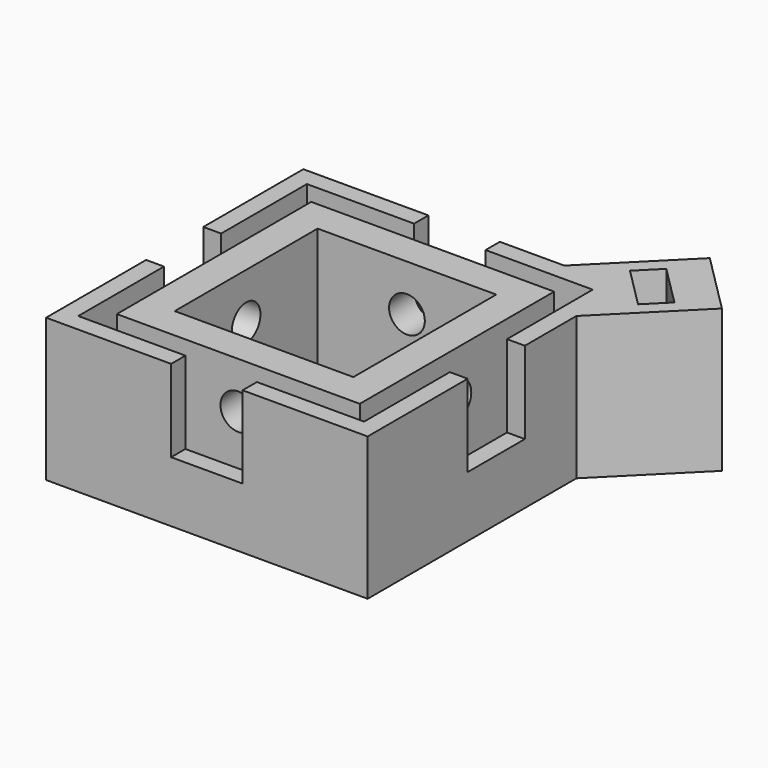
from build123d import *

# Parameters (mm, degrees)
F0_W      = 25
F0_H      = 25
F1_DEPTH  = 5
F2_W      = 34
F2_H      = 34
F2_W_2    = 25
F2_H_2    = 25
F3_DEPTH  = 15
F4_W      = 40
F4_H      = 40
F5_DEPTH  = 15
F6_W      = 10
F6_H      = 2.5
F6_W_2    = 2.5
F6_H_2    = 10
F7_DEPTH  = 11.5
F8_R      = 2.75
F9_DEPTH  = 25
F11_DEPTH = 15
F12_R     = 2.5
F13_DEPTH = 45
F14_R     = 2.5
F15_DEPTH = 45


with BuildPart() as f1:
    # F0 (on Top) → F1 (new body)
    with BuildSketch(Plane.XY):
        Polygon((22.5, 14.0147186258), (22.5, 22.5), (14.0147186258, 22.5), (-22.5, 22.5), (-22.5, -22.5), (22.5, -22.5), align=None)
        Rectangle(F0_W, F0_H, mode=Mode.SUBTRACT)
        Polygon((14.0147186258, 22.5), (22.5, 22.5), (22.5, 14.0147186258), (33.813708499, 25.3284271247), (25.3284271247, 33.813708499), align=None)
    extrude(amount=F1_DEPTH)

    # F2 (on face) → F3 (join)
    with BuildSketch(Plane.XY.offset(5)):
        Rectangle(F2_W, F2_H)
        Rectangle(F2_W_2, F2_H_2, mode=Mode.SUBTRACT)
    extrude(amount=F3_DEPTH)

    # F4 (on face) → F5 (join)
    with BuildSketch(Plane.XY.offset(5)):
        Polygon((25.3284271247, 33.813708499), (14.0147186258, 22.5), (-22.5, 22.5), (-22.5, -22.5), (22.5, -22.5), (22.5, 14.0147186258), (33.813708499, 25.3284271247), align=None)
        Rectangle(F4_W, F4_H, mode=Mode.SUBTRACT)
    extrude(amount=F5_DEPTH)

    # F6 (on face) → F7 (cut)
    with BuildSketch(Plane.XY.offset(20)):
        with Locations((0, 21.25)):
            Rectangle(F6_W, F6_H)
        with Locations((-21.25, 0)):
            Rectangle(F6_W_2, F6_H_2)
        with Locations((21.25, 0)):
            Rectangle(F6_W_2, F6_H_2)
        with Locations((0, -21.25)):
            Rectangle(F6_W, F6_H)
    extrude(amount=-F7_DEPTH, mode=Mode.SUBTRACT)

    # F8 (on face) → F9 (cut)
    with BuildSketch(Plane(origin=(29.5710678119, 29.5710678119, 0), x_dir=(-0.7071067812, 0.7071067812, 0), z_dir=(0.7071067812, 0.7071067812, 0))):
        with Locations((0, 10)):
            Circle(F8_R)
    extrude(amount=-F9_DEPTH, mode=Mode.SUBTRACT)

    # F10 (on face) → F11 (cut)
    with BuildSketch(Plane.XY.offset(20)):
        Polygon((28.8639610307, 23.2071067812), (23.2071067812, 28.8639610307), (20.3786796564, 26.0355339059), (26.0355339059, 20.3786796564), align=None)
    extrude(amount=-F11_DEPTH, mode=Mode.SUBTRACT)

    # F12 (on face) → F13 (cut)
    with BuildSketch(Plane(origin=(0, 17, 0), x_dir=(-1, 0, 0), z_dir=(0, 1, 0))):
        with Locations((0, 13.5)):
            Circle(F12_R)
    extrude(amount=-F13_DEPTH, mode=Mode.SUBTRACT)

    # F14 (on face) → F15 (cut)
    with BuildSketch(Plane.YZ.offset(17)):
        with Locations((0, 13.5)):
            Circle(F14_R)
    extrude(amount=-F15_DEPTH, mode=Mode.SUBTRACT)


solid = f1.part
